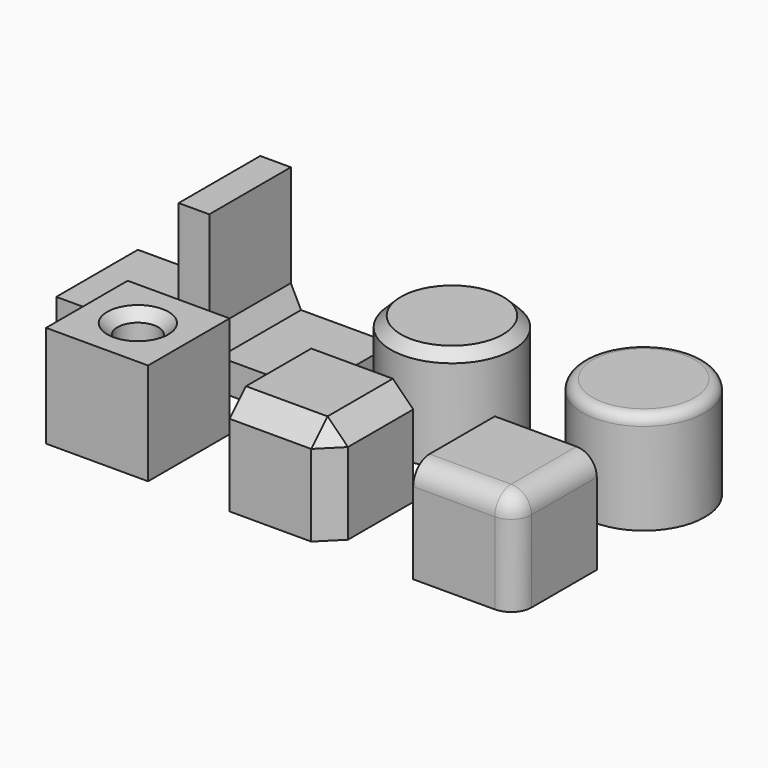
from build123d import *

# Parameters (mm, degrees)
BOX_W             = 10
BOX_H             = 10
BOX_DEPTH         = 10
FILLET_R          = 2
BOX001_W          = 10
BOX001_H          = 10
BOX001_DEPTH      = 10
CHAMFER_SIZE      = 2
CYLINDER_R        = 2
CYLINDER_DEPTH    = 10
BOX002_W          = 10
BOX002_H          = 10
BOX002_DEPTH      = 10
CHAMFER001_SIZE   = 1
CYLINDER001_R     = 6
CYLINDER001_DEPTH = 10
FILLET001_R       = 1
CYLINDER002_R     = 6
CYLINDER002_DEPTH = 10
CHAMFER002_SIZE   = 1
BOX004_W          = 3
BOX004_H          = 10
BOX004_DEPTH      = 15
BOX003_W          = 25
BOX003_H          = 10
BOX003_DEPTH      = 3
CHAMFER003_SIZE2  = 1
CHAMFER003_SIZE   = 2
FILLET002_R       = 3


with BuildPart() as fillet_body:
    # Box → Box (new body)
    with BuildSketch(Plane.XY):
        with Locations((5, 5)):
            Rectangle(BOX_W, BOX_H)
    extrude(amount=BOX_DEPTH)

    # Fillet
    fillet_edges = [fillet_body.edges().sort_by_distance(p)[0] for p in [
        (10, 0, 5),
        (10, 5, 10),
        (5, 0, 10),
    ]]
    fillet(fillet_edges, radius=FILLET_R)


with BuildPart() as chamfer_body:
    # Box001 → Box001 (new body)
    with BuildSketch(Plane(origin=(-18, 0, 0), x_dir=(1, 0, 0), z_dir=(0, 0, 1))):
        with Locations((5, 5)):
            Rectangle(BOX001_W, BOX001_H)
    extrude(amount=BOX001_DEPTH)

    # Chamfer
    chamfer_edges = [chamfer_body.edges().sort_by_distance(p)[0] for p in [
        (-8, 0, 5),
        (-8, 5, 10),
        (-13, 0, 10),
    ]]
    chamfer(chamfer_edges, length=CHAMFER_SIZE)


with BuildPart() as cilindre:
    # Cylinder → Cylinder (new body)
    with BuildSketch(Plane(origin=(-31, 5, 0), x_dir=(1, 0, 0), z_dir=(0, 0, 1))):
        Circle(CYLINDER_R)
    extrude(amount=CYLINDER_DEPTH)


with BuildPart() as chamfer001:
    # Box002 → Box002 (new body)
    with BuildSketch(Plane(origin=(-36, 0, 0), x_dir=(1, 0, 0), z_dir=(0, 0, 1))):
        with Locations((5, 5)):
            Rectangle(BOX002_W, BOX002_H)
    extrude(amount=BOX002_DEPTH)

    # Cut: cut Cilindre
    add(cilindre.part, mode=Mode.SUBTRACT)

    # Chamfer001
    chamfer001_edges = [chamfer001.edges().sort_by_distance(p)[0] for p in [
        (-33, 5, 10),
    ]]
    chamfer(chamfer001_edges, length=CHAMFER001_SIZE)


with BuildPart() as fillet001:
    # Cylinder001 → Cylinder001 (new body)
    with BuildSketch(Plane(origin=(5, 22, 0), x_dir=(1, 0, 0), z_dir=(0, 0, 1))):
        Circle(CYLINDER001_R)
    extrude(amount=CYLINDER001_DEPTH)

    # Fillet001
    fillet001_edges = [fillet001.edges().sort_by_distance(p)[0] for p in [
        (-1, 22, 10),
    ]]
    fillet(fillet001_edges, radius=FILLET001_R)


with BuildPart() as chamfer002:
    # Cylinder002 → Cylinder002 (new body)
    with BuildSketch(Plane(origin=(-13, 21, 0), x_dir=(1, 0, 0), z_dir=(0, 0, 1))):
        Circle(CYLINDER002_R)
    extrude(amount=CYLINDER002_DEPTH)

    # Chamfer002
    chamfer002_edges = [chamfer002.edges().sort_by_distance(p)[0] for p in [
        (-19, 21, 10),
    ]]
    chamfer(chamfer002_edges, length=CHAMFER002_SIZE)


with BuildPart() as cub004:
    # Box004 → Box004 (new body)
    with BuildSketch(Plane(origin=(-35, 15, 0), x_dir=(1, 0, 0), z_dir=(0, 0, 1))):
        with Locations((1.5, 5)):
            Rectangle(BOX004_W, BOX004_H)
    extrude(amount=BOX004_DEPTH)


with BuildPart() as fillet002:
    # Box003 → Box003 (new body)
    with BuildSketch(Plane(origin=(-47, 15, 0), x_dir=(1, 0, 0), z_dir=(0, 0, 1))):
        with Locations((12.5, 5)):
            Rectangle(BOX003_W, BOX003_H)
    extrude(amount=BOX003_DEPTH)

    # Fusion: union Cub004
    add(cub004.part)

    # Chamfer003
    chamfer003_edges = [fillet002.edges().sort_by_distance(p)[0] for p in [
        (-32, 20, 3),
    ]]
    chamfer003_side = fillet002.faces().sort_by_distance((-32, 20, 9))[0]
    chamfer(chamfer003_edges, length=CHAMFER003_SIZE, length2=CHAMFER003_SIZE2, reference=chamfer003_side)

    # Fillet002
    fillet002_edges = [fillet002.edges().sort_by_distance(p)[0] for p in [
        (-35, 20, 3),
    ]]
    fillet(fillet002_edges, radius=FILLET002_R)


solid = Compound([fillet_body.part, chamfer_body.part, chamfer001.part, fillet001.part, chamfer002.part, fillet002.part])
